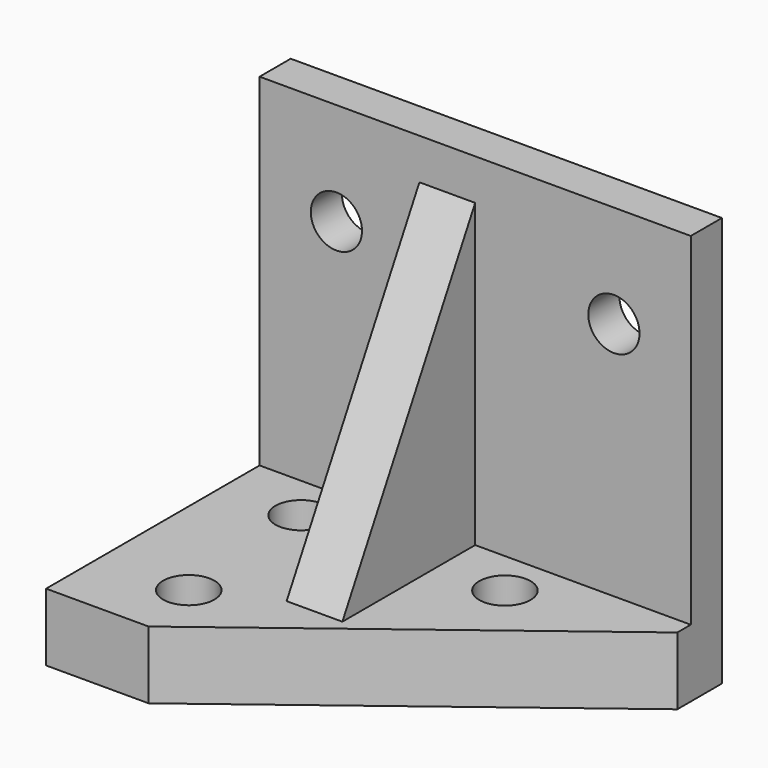
from build123d import *

# Parameters (mm, degrees)
F0_R     = 6.35
F1_DEPTH = 16.764
F2_R     = 6.35
F2_W     = 27.6436659317
F2_H     = 72.136
F3_DEPTH = 9.652
F4_W     = 13.8218329659
F4_H     = 41.148
F5_DEPTH = 74.676
F7_DEPTH = 53.04913


with BuildPart() as f1:
    # F0 (on Top) → F1 (new body)
    with BuildSketch(Plane.XY):
        Polygon((58.0747899478, -10.0489559141), (-48.8168759839, -10.0489559141), (-48.8168759839, -76.2), (-23.4168759839, -76.2), (58.0747899478, -14.224), align=None)
        with Locations((-26.856459501, -59.436)):
            Circle(F0_R, mode=Mode.SUBTRACT)
        with Locations((-29.5022924669, -21.336)):
            Circle(F0_R, mode=Mode.SUBTRACT)
        with Locations((21.0331240161, -21.336)):
            Circle(F0_R, mode=Mode.SUBTRACT)
    extrude(amount=F1_DEPTH)

    # F2 (on face) → F3 (join)
    with BuildSketch(Plane(origin=(0, -10.0489559141, 0), x_dir=(-1, 0, 0), z_dir=(0, 1, 0))):
        Polygon((-58.0747899478, 16.764), (-58.0747899478, 0), (48.8168759839, 0), (48.8168759839, 16.764), (9.1928759839, 16.764), (-18.4507899478, 16.764), align=None)
        Polygon((-58.0747899478, 101.6), (-58.0747899478, 16.764), (-18.4507899478, 16.764), (-18.4507899478, 88.9), (9.1928759839, 88.9), (9.1928759839, 16.764), (48.8168759839, 16.764), (48.8168759839, 101.6), align=None)
        with Locations((-39.0247899478, 76.2)):
            Circle(F2_R, mode=Mode.SUBTRACT)
        with Locations((29.7668759839, 76.2)):
            Circle(F2_R, mode=Mode.SUBTRACT)
        with Locations((-4.6289569819, 52.832)):
            Rectangle(F2_W, F2_H)
    extrude(amount=F3_DEPTH)

    # F4 (on face) → F5 (join)
    with BuildSketch(Plane.XY.offset(16.764)):
        with Locations((-2.281959501, -30.6229559141)):
            Rectangle(F4_W, F4_H)
    extrude(amount=F5_DEPTH)

    # F6 (on face) → F7 (cut)
    with BuildSketch(Plane.YZ.offset(4.6289569819)):
        Polygon((-51.1969559141, 91.44), (-51.1969559141, 16.764), (-10.0489559141, 91.44), align=None)
    extrude(amount=-F7_DEPTH, mode=Mode.SUBTRACT)


solid = f1.part
